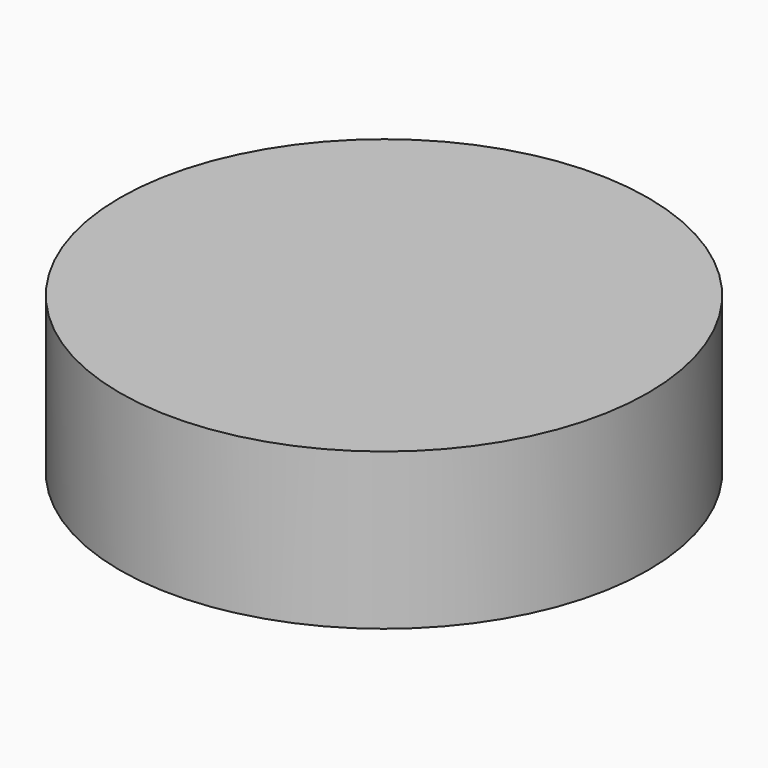
from build123d import *

# Parameters (mm, degrees)
CYLINDER040_R     = 1
CYLINDER040_DEPTH = 10
CYLINDER037_R     = 3.7
CYLINDER037_DEPTH = 10
CYLINDER038_W     = 4.7
CYLINDER038_H     = 10
CYLINDER038_ANGLE = 86
FILLET003_R       = 0.79
ARRAY006_COUNT    = 4
CYLINDER036_R     = 1.4
CYLINDER036_DEPTH = 10
ARRAY004_COUNT    = 3
BOX003_W          = 10
BOX003_H          = 5
BOX003_DEPTH      = 3
FILLET002_R       = 2
ARRAY005_COUNT    = 3
CYLINDER035_R     = 7
CYLINDER035_DEPTH = 3
CYLINDER039_R     = 2
CYLINDER039_DEPTH = 3
CYLINDER042_R     = 11
CYLINDER042_DEPTH = 6.5


with BuildPart() as cylinder022:
    # Cylinder040 → Cylinder040 (new body)
    with BuildSketch(Plane(origin=(-7, 0, 0), x_dir=(1, 0, 0), z_dir=(0, 0, 1))):
        Circle(CYLINDER040_R)
    extrude(amount=CYLINDER040_DEPTH)


with BuildPart() as mountplateinnerhole002:
    # Cylinder037 → Cylinder037 (new body)
    with BuildSketch(Plane.XY):
        Circle(CYLINDER037_R)
    extrude(amount=CYLINDER037_DEPTH)


with BuildPart() as array006:
    # Cylinder038 → Cylinder038 (revolve)
    with BuildSketch(Plane(origin=(0, 0, 0.6), x_dir=(1, 0, 0), z_dir=(0, -1, 0))):
        with Locations((2.35, 5)):
            Rectangle(CYLINDER038_W, CYLINDER038_H)
    revolve(axis=Axis((0, 0, 0.6), (0, 0, 1)), revolution_arc=CYLINDER038_ANGLE)

    # Fillet003
    fillet003_edges = [array006.edges().sort_by_distance(p)[0] for p in [
        (0.327855, 4.688551, 5.6),
        (4.7, 0, 5.6),
    ]]
    fillet(fillet003_edges, radius=FILLET003_R)

    # Array006: Array006 ×4 about axis
    array006_axis = Axis((0, 0, 0), (0, 0, 1))


with BuildPart() as array006_1:
    add(array006.part)
    for i in range(1, ARRAY006_COUNT):
        add(array006.part.rotate(array006_axis, i * 360 / ARRAY006_COUNT))


with BuildPart() as fusion011:
    # Cylinder036 → Cylinder036 (new body)
    with BuildSketch(Plane(origin=(8, 0, 0), x_dir=(1, 0, 0), z_dir=(0, 0, 1))):
        Circle(CYLINDER036_R)
    extrude(amount=CYLINDER036_DEPTH)

    # Array004: Fusion011 ×3 about axis
    array004_axis = Axis((0, 0, 0), (0, 0, 1))


with BuildPart() as fusion011_1:
    add(fusion011.part)
    for i in range(1, ARRAY004_COUNT):
        add(fusion011.part.rotate(array004_axis, i * 360 / ARRAY004_COUNT))

    # Fusion011: union Cylinder022, MountPlateInnerHole002, Array006
    add(cylinder022.part)
    add(mountplateinnerhole002.part)
    add(array006_1.part)


with BuildPart() as array005:
    # Box003 → Box003 (new body)
    with BuildSketch(Plane(origin=(0.5, -2.5, 0), x_dir=(1, 0, 0), z_dir=(0, 0, 1))):
        with Locations((5, 2.5)):
            Rectangle(BOX003_W, BOX003_H)
    extrude(amount=BOX003_DEPTH)

    # Fillet002
    fillet002_edges = [array005.edges().sort_by_distance(p)[0] for p in [
        (10.5, -2.5, 1.5),
        (10.5, 2.5, 1.5),
    ]]
    fillet(fillet002_edges, radius=FILLET002_R)

    # Array005: Array005 ×3 about axis
    array005_axis = Axis((0, 0, 0), (0, 0, 1))


with BuildPart() as array005_1:
    add(array005.part)
    for i in range(1, ARRAY005_COUNT):
        add(array005.part.rotate(array005_axis, i * 360 / ARRAY005_COUNT))


with BuildPart() as mountplatebody002:
    # Cylinder035 → Cylinder035 (new body)
    with BuildSketch(Plane.XY):
        Circle(CYLINDER035_R)
    extrude(amount=CYLINDER035_DEPTH)


with BuildPart() as cut011:
    # Cylinder039 → Cylinder039 (new body)
    with BuildSketch(Plane(origin=(-7, 0, 0), x_dir=(1, 0, 0), z_dir=(0, 0, 1))):
        Circle(CYLINDER039_R)
    extrude(amount=CYLINDER039_DEPTH)

    # Fusion010: union Array005, MountPlateBody002
    add(array005_1.part)
    add(mountplatebody002.part)

    # Cut011: cut Fusion011
    add(fusion011_1.part, mode=Mode.SUBTRACT)


with BuildPart() as cut012:
    # Cylinder042 → Cylinder042 (new body)
    with BuildSketch(Plane.XY):
        Circle(CYLINDER042_R)
    extrude(amount=CYLINDER042_DEPTH)

    # Cut012: cut Cut011
    add(cut011.part, mode=Mode.SUBTRACT)


solid = cut012.part
